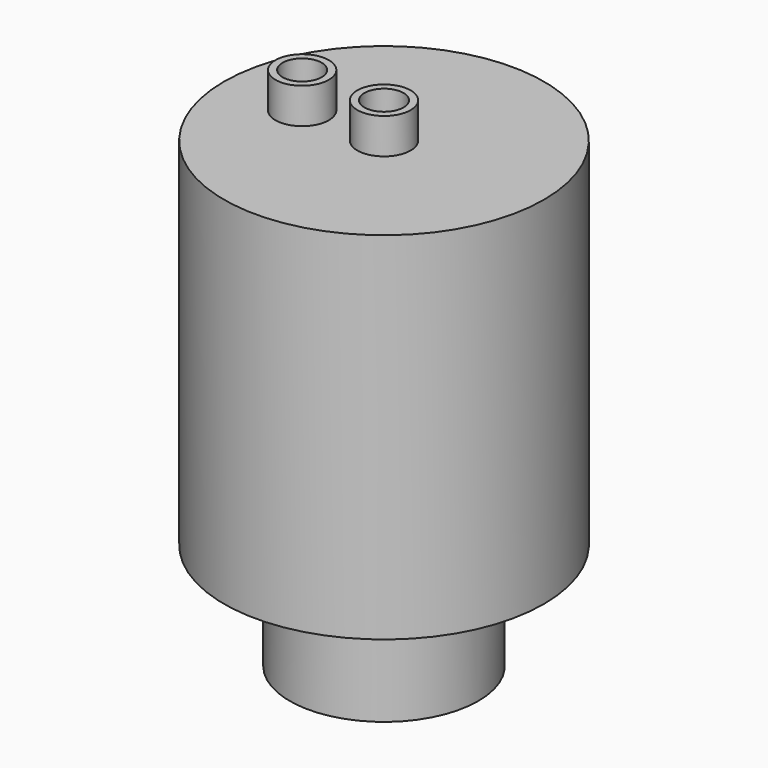
from build123d import *

# Parameters (mm, degrees)
F0_R     = 44.95
F1_DEPTH = 130
F2_R     = 7.5
F2_R_2   = 5.5
F3_DEPTH = 10
F4_R     = 44.95
F4_R_2   = 26.5
F5_DEPTH = 30


with BuildPart() as f1:
    # F0 (on Top) → F1 (new body)
    with BuildSketch(Plane.XY):
        Circle(F0_R)
    extrude(amount=F1_DEPTH)

    # F2 (on face) → F3 (join)
    with BuildSketch(Plane.XY.offset(130)):
        Circle(F2_R)
        Circle(F2_R_2, mode=Mode.SUBTRACT)
        with Locations((-23, 0)):
            Circle(F2_R)
        with Locations((-23, 0)):
            Circle(F2_R_2, mode=Mode.SUBTRACT)
    extrude(amount=F3_DEPTH)

    # F4 (on face) → F5 (cut)
    with BuildSketch(Plane(origin=(0, 0, 0), x_dir=(1, 0, 0), z_dir=(0, 0, -1))):
        Circle(F4_R)
        Circle(F4_R_2, mode=Mode.SUBTRACT)
    extrude(amount=-F5_DEPTH, mode=Mode.SUBTRACT)


solid = f1.part
